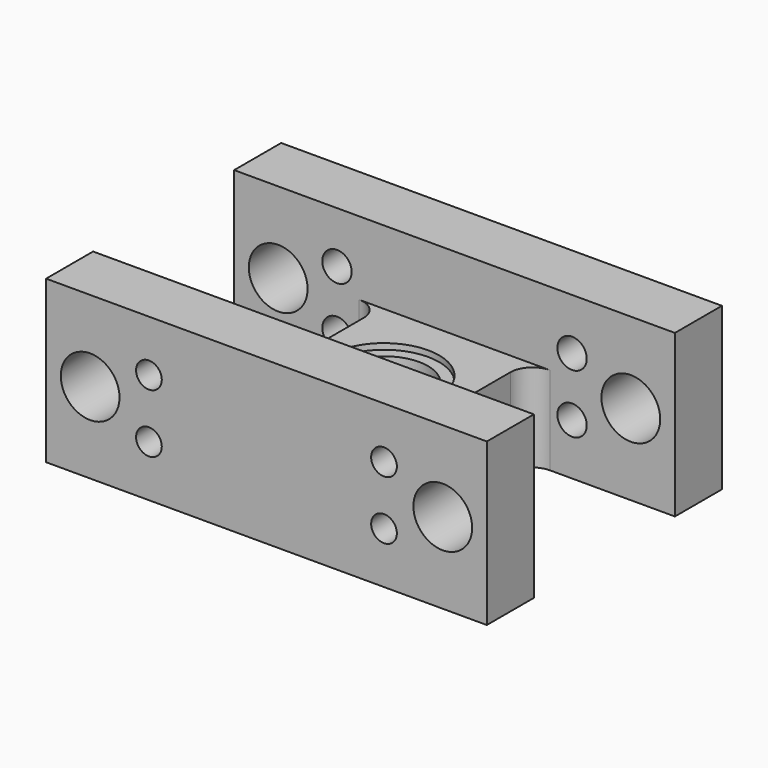
from build123d import *

# Parameters (mm, degrees)
F0_W      = 60
F0_H      = 40
F0_R      = 6
F1_DEPTH  = 6
F2_W      = 8
F2_H      = 10
F3_DEPTH  = 60
F4_R      = 2
F5_DEPTH  = 10
F6_R      = 1.75
F7_DEPTH  = 10
F8_R      = 7.5
F9_DEPTH  = 0.8
F10_R     = 7.5
F11_DEPTH = 0.8
F12_W     = 20
F12_H     = 24
F13_DEPTH = 25
F14_R     = 3
F15_R     = 4
F16_DEPTH = 40.001


with BuildPart() as f1:
    # F0 (on Top) → F1 (new body, symmetric)
    with BuildSketch(Plane.XY):
        Rectangle(F0_W, F0_H)
        Circle(F0_R, mode=Mode.SUBTRACT)
    extrude(amount=F1_DEPTH, both=True)

    # F2 (on face) → F3 (join, through all)
    with BuildSketch(Plane.YZ.offset(30)):
        with Locations((16, 11)):
            Rectangle(F2_W, F2_H)
        with Locations((-16, 11)):
            Rectangle(F2_W, F2_H)
    extrude(amount=-F3_DEPTH)

    # F4 (on face) → F5 (cut)
    with BuildSketch(Plane(origin=(0, 20, 0), x_dir=(-1, 0, 0), z_dir=(0, 1, 0))):
        with Locations((16, 9)):
            Circle(F4_R)
        with Locations((-16, 9)):
            Circle(F4_R)
        with Locations((16, 1)):
            Circle(F4_R)
        with Locations((-16, 1)):
            Circle(F4_R)
    extrude(amount=-F5_DEPTH, mode=Mode.SUBTRACT)

    # F6 (on face) → F7 (cut)
    with BuildSketch(Plane.XZ.offset(20)):
        with Locations((16, 9)):
            Circle(F6_R)
        with Locations((-16, 9)):
            Circle(F6_R)
        with Locations((16, 1)):
            Circle(F6_R)
        with Locations((-16, 1)):
            Circle(F6_R)
    extrude(amount=-F7_DEPTH, mode=Mode.SUBTRACT)

    # F8 (on face) → F9 (cut)
    with BuildSketch(Plane.XY.offset(6)):
        Circle(F8_R)
    extrude(amount=-F9_DEPTH, mode=Mode.SUBTRACT)

    # F10 (on face) → F11 (cut)
    with BuildSketch(Plane(origin=(0, 0, -6), x_dir=(1, 0, 0), z_dir=(0, 0, -1))):
        Circle(F10_R)
    extrude(amount=-F11_DEPTH, mode=Mode.SUBTRACT)

    # F12 (on face) → F13 (cut)
    with BuildSketch(Plane.XY.offset(6)):
        with Locations((20, 0)):
            Rectangle(F12_W, F12_H)
        with Locations((-20, 0)):
            Rectangle(F12_W, F12_H)
    extrude(amount=-F13_DEPTH, mode=Mode.SUBTRACT)

    # F14
    f14_edges = [f1.edges().sort_by_distance(p)[0] for p in [
        (-10, 12, 0),
        (10, 12, 0),
        (10, -12, 0),
        (-10, -12, 0),
    ]]
    fillet(f14_edges, radius=F14_R)

    # F15 (on face) → F16 (cut, through all)
    with BuildSketch(Plane(origin=(0, 20, 0), x_dir=(-1, 0, 0), z_dir=(0, 1, 0))):
        with Locations((24, 5)):
            Circle(F15_R)
        with Locations((-24, 5)):
            Circle(F15_R)
    extrude(amount=-F16_DEPTH, mode=Mode.SUBTRACT)


solid = f1.part
